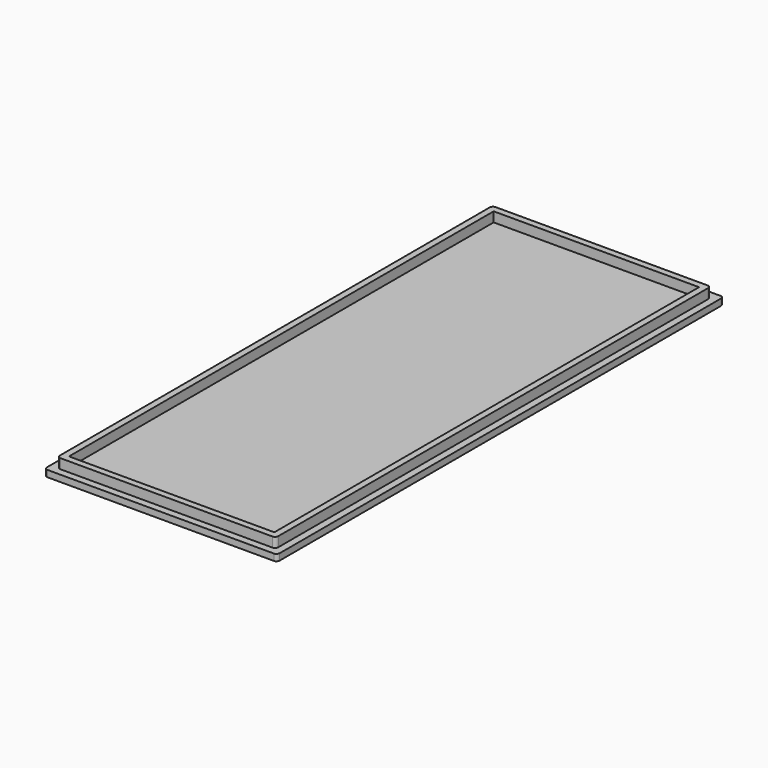
from build123d import *

# Parameters (mm, degrees)
F1_DEPTH = 2.54
F3_DEPTH = 6.35
F4_W     = 80.137
F4_H     = 207.137
F5_DEPTH = 3.81


with BuildPart() as f1:
    # F0 (on Top) → F1 (new body)
    with BuildSketch(Plane.XY):
        with BuildLine():
            ThreePointArc((0, 1.27), (0.371974, 0.371974), (1.27, 0))
            Line((1.27, 0), (89.535, 0))
            ThreePointArc((89.535, 0), (90.433026, 0.371974), (90.805, 1.27))
            Line((90.805, 1.27), (90.805, 216.535))
            ThreePointArc((90.805, 216.535), (90.433026, 217.433026), (89.535, 217.805))
            Line((89.535, 217.805), (1.27, 217.805))
            ThreePointArc((1.27, 217.805), (0.371974, 217.433026), (0, 216.535))
            Line((0, 216.535), (0, 1.27))
        make_face()
    extrude(amount=F1_DEPTH)

    # F2 (on Top) → F3 (join)
    with BuildSketch(Plane.XY):
        with BuildLine():
            Line((2.794, 213.741), (2.794, 4.064))
            ThreePointArc((2.794, 4.064), (3.165974, 3.165974), (4.064, 2.794))
            Line((4.064, 2.794), (86.741, 2.794))
            ThreePointArc((86.741, 2.794), (87.639026, 3.165974), (88.011, 4.064))
            Line((88.011, 4.064), (88.011, 213.741))
            ThreePointArc((88.011, 213.741), (87.639026, 214.639026), (86.741, 215.011))
            Line((86.741, 215.011), (4.064, 215.011))
            ThreePointArc((4.064, 215.011), (3.165974, 214.639026), (2.794, 213.741))
        make_face()
    extrude(amount=F3_DEPTH)

    # F4 (on face) → F5 (cut)
    with BuildSketch(Plane.XY.offset(6.35)):
        with Locations((45.4025, 108.9025)):
            Rectangle(F4_W, F4_H)
    extrude(amount=-F5_DEPTH, mode=Mode.SUBTRACT)


solid = f1.part
